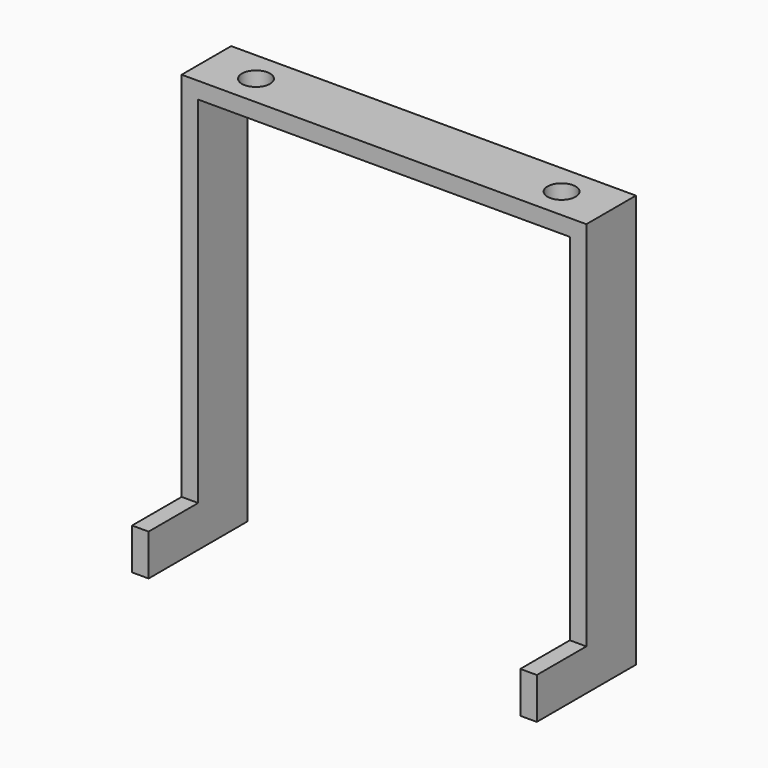
from build123d import *

# Parameters (mm, degrees)
F0_W     = 2
F0_H     = 5
F1_DEPTH = 7.5
F3_D     = 3.4
F4_D     = 3.4
F5_DEPTH = 15


with BuildPart() as f1:
    # F0 (on Front) → F1 (new body)
    with BuildSketch(Plane.XZ):
        Polygon((-22.5, -8.5627355796), (-22.5, 34.4372644204), (22.5, 34.4372644204), (22.5, -8.5627355796), (24.5, -8.5627355796), (24.5, 36.4372644204), (-24.5, 36.4372644204), (-24.5, -8.5627355796), align=None)
        with Locations((-23.5, -11.0627355796)):
            Rectangle(F0_W, F0_H)
        with Locations((23.5, -11.0627355796)):
            Rectangle(F0_W, F0_H)
    extrude(amount=F1_DEPTH)

    # F3 (through all)
    with Locations(Plane(origin=(0, 0, 34.4372644204), x_dir=(1, 0, 0), z_dir=(0, 0, -1))):
        with Locations((-18.5, 3.75)):
            Hole(F3_D / 2)

    # F4 (through all)
    with Locations(Plane(origin=(0, 0, 34.4372644204), x_dir=(1, 0, 0), z_dir=(0, 0, -1))):
        with Locations((18.5, 3.75)):
            Hole(F4_D / 2)

    # F0 (on Front) → F5 (join)
    with BuildSketch(Plane.XZ):
        with Locations((-23.5, -11.0627355796)):
            Rectangle(F0_W, F0_H)
        with Locations((23.5, -11.0627355796)):
            Rectangle(F0_W, F0_H)
    extrude(amount=F5_DEPTH)


solid = f1.part
